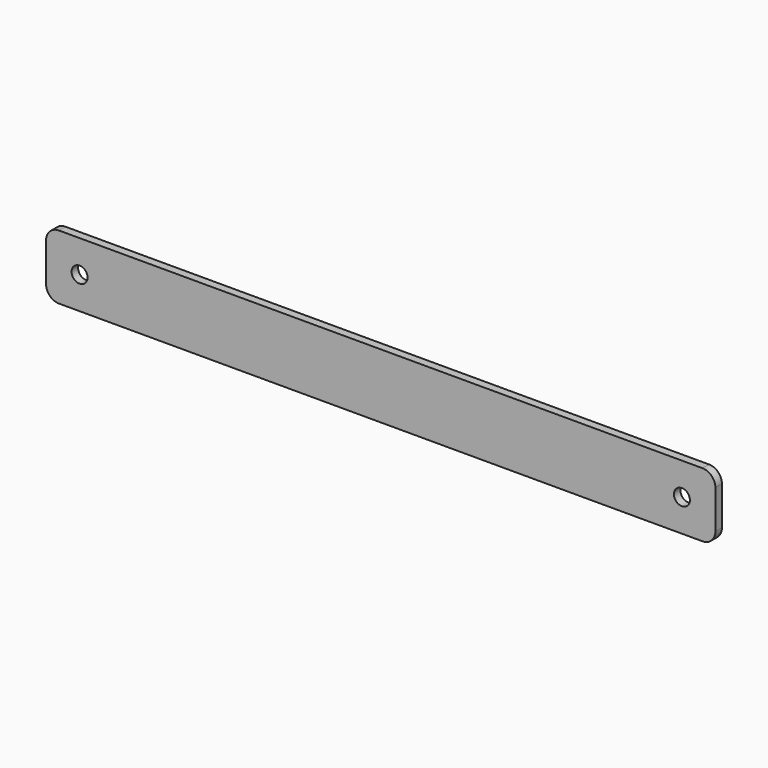
from build123d import *

# Parameters (mm, degrees)
F0_R     = 3.1
F1_DEPTH = 3.175


with BuildPart() as f1:
    # F0 (on Front) → F1 (new body)
    with BuildSketch(Plane.XZ):
        with BuildLine():
            Line((125, 12.5), (-125, 12.5))
            ThreePointArc((-125, 12.5), (-128.535534, 11.035534), (-130, 7.5))
            Line((-130, 7.5), (-130, -7.5))
            ThreePointArc((-130, -7.5), (-128.535534, -11.035534), (-125, -12.5))
            Line((-125, -12.5), (125, -12.5))
            ThreePointArc((125, -12.5), (128.535534, -11.035534), (130, -7.5))
            Line((130, -7.5), (130, 7.5))
            ThreePointArc((130, 7.5), (128.535534, 11.035534), (125, 12.5))
        make_face()
        with Locations((-117, 0)):
            Circle(F0_R, mode=Mode.SUBTRACT)
        with BuildLine():
            ThreePointArc((120.1, 0), (117, -3.1), (113.9, 0))
            ThreePointArc((113.9, 0), (117, 3.1), (120.1, 0))
        make_face(mode=Mode.SUBTRACT)
    extrude(amount=F1_DEPTH)


solid = f1.part
